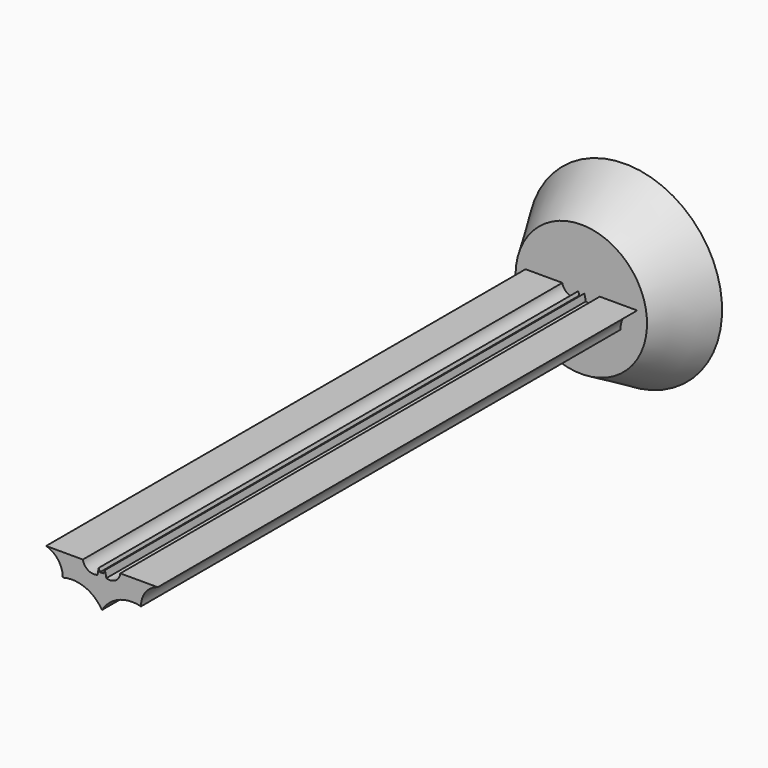
from build123d import *

# Parameters (mm, degrees)
F1_DEPTH = 165
F2_R     = 18.1064053577
F3_DEPTH = 15
F3_TAPER = -30


with BuildPart() as f1:
    # F0 (on Front) → F1 (new body)
    with BuildSketch(Plane.XZ):
        with BuildLine():
            Line((-5.2224357214, 2.2881067342), (-15.3487237703, 2.2881067342))
            ThreePointArc((-15.3487237703, 2.2881067342), (-12.0123631173, -0.0223095825), (-10.7497914296, -3.8791526823))
            ThreePointArc((-10.7497914296, -3.8791526823), (-4.6242382738, -4.2396033418), (0.0342869598, -8.2334071414))
            ThreePointArc((0.0342869598, -8.2334071414), (4.6753360072, -4.255598833), (10.776203445, -3.8791526823))
            ThreePointArc((10.776203445, -3.8791526823), (12.0411069889, -0.0126512419), (15.3961520109, 2.2881067342))
            Line((15.3961520109, 2.2881067342), (5.0868581448, 2.2881067342))
            ThreePointArc((5.0868581448, 2.2881067342), (3.7527690695, 0.1567630125), (1.2538011351, -0.1217670289))
            Line((1.2538011351, -0.1217670289), (0.8514458596, 1.6882367416))
            Line((0.8514458596, 1.6882367416), (0.4826202921, 0.7501462459))
            Line((0.4826202921, 0.7501462459), (-0.5232671692, 0.7501462459))
            Line((-0.5232671692, 0.7501462459), (-0.8586799095, 1.6882367416))
            Line((-0.8586799095, 1.6882367416), (-1.1938931721, -0.1217670289))
            ThreePointArc((-1.1938931721, -0.1217670289), (-3.7619236948, 0.1574604952), (-5.2224357214, 2.2881067342))
        make_face()
    extrude(amount=F1_DEPTH)

    # F2 (on face) → F3 (join)
    with BuildSketch(Plane(origin=(0, 0, 0), x_dir=(-1, 0, 0), z_dir=(0, 1, 0))):
        Circle(F2_R)
    extrude(amount=F3_DEPTH, taper=F3_TAPER)


solid = f1.part
